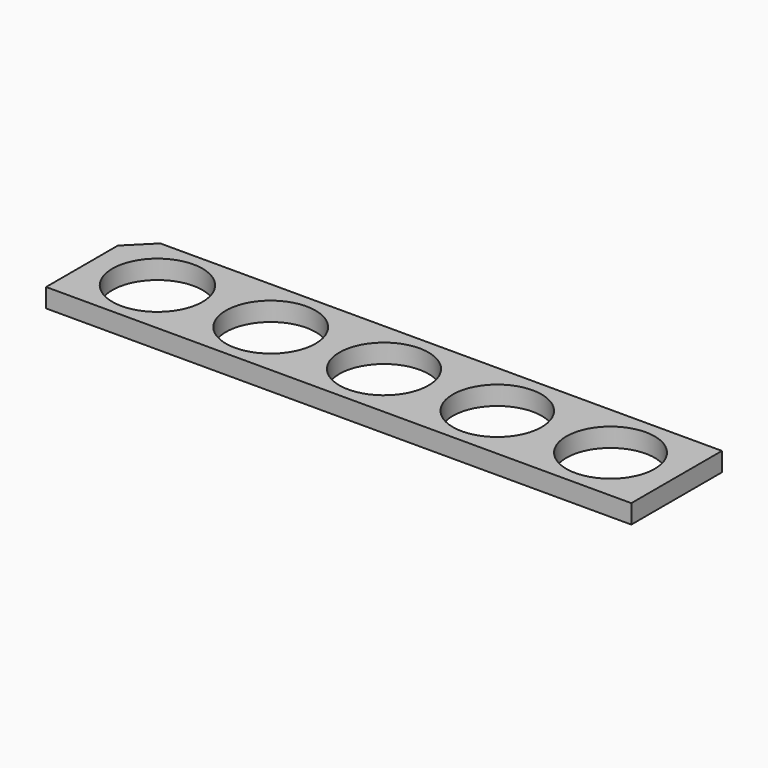
from build123d import *

# Parameters (mm, degrees)
F0_R     = 9.55
F0_W     = 124
F0_H     = 24
F1_DEPTH = 4
F2_SIZE  = 5


with BuildPart() as f1:
    # F0 (on Top) → F1 (new body)
    with BuildSketch(Plane.XY):
        with BuildLine():
            ThreePointArc((57.35, 0), (48, 9.35), (38.65, 0))
            ThreePointArc((38.65, 0), (48, -9.35), (57.35, 0))
        make_face()
        with Locations((-48, 0)):
            Circle(F0_R)
        Rectangle(F0_W, F0_H)
        with Locations((-48, 0)):
            Circle(F0_R, mode=Mode.SUBTRACT)
        with BuildLine():
            ThreePointArc((-33.5, 0), (-24, 9.5), (-14.5, 0))
            ThreePointArc((-14.5, 0), (-24, -9.5), (-33.5, 0))
        make_face(mode=Mode.SUBTRACT)
        with BuildLine():
            ThreePointArc((9.45, 0), (0, -9.45), (-9.45, 0))
            ThreePointArc((-9.45, 0), (0, 9.45), (9.45, 0))
        make_face(mode=Mode.SUBTRACT)
        with BuildLine():
            ThreePointArc((33.4, 0), (24, -9.4), (14.6, 0))
            ThreePointArc((14.6, 0), (24, 9.4), (33.4, 0))
        make_face(mode=Mode.SUBTRACT)
        with BuildLine():
            ThreePointArc((57.35, 0), (48, -9.35), (38.65, 0))
            ThreePointArc((38.65, 0), (48, 9.35), (57.35, 0))
        make_face(mode=Mode.SUBTRACT)
    extrude(amount=F1_DEPTH)

    # F2
    f2_edges = [f1.edges().sort_by_distance(p)[0] for p in [
        (-62, 12, 2),
    ]]
    chamfer(f2_edges, length=F2_SIZE)


solid = f1.part
